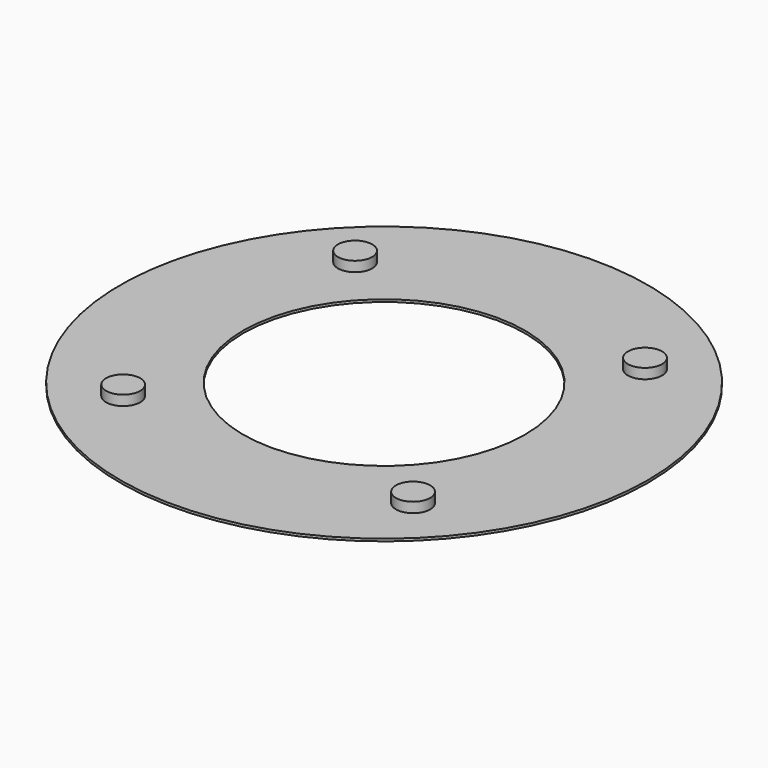
from build123d import *

# Parameters (mm, degrees)
F0_R     = 65.55
F1_DEPTH = 0.6
F2_R     = 4.25
F3_DEPTH = 2.5
F4_R     = 35
F5_DEPTH = 0.601


with BuildPart() as f1:
    # F0 (on Top) → F1 (new body)
    with BuildSketch(Plane.XY):
        Circle(F0_R)
    extrude(amount=F1_DEPTH)

    # F2 (on face) → F3 (join)
    with BuildSketch(Plane.XY.offset(0.6)):
        with Locations((-36, 36)):
            Circle(F2_R)
        with Locations((36, 36)):
            Circle(F2_R)
        with Locations((36, -36)):
            Circle(F2_R)
        with Locations((-36, -36)):
            Circle(F2_R)
    extrude(amount=F3_DEPTH)

    # F4 (on face) → F5 (cut, through all)
    with BuildSketch(Plane.XY.offset(0.6)):
        Circle(F4_R)
    extrude(amount=-F5_DEPTH, mode=Mode.SUBTRACT)


solid = f1.part
